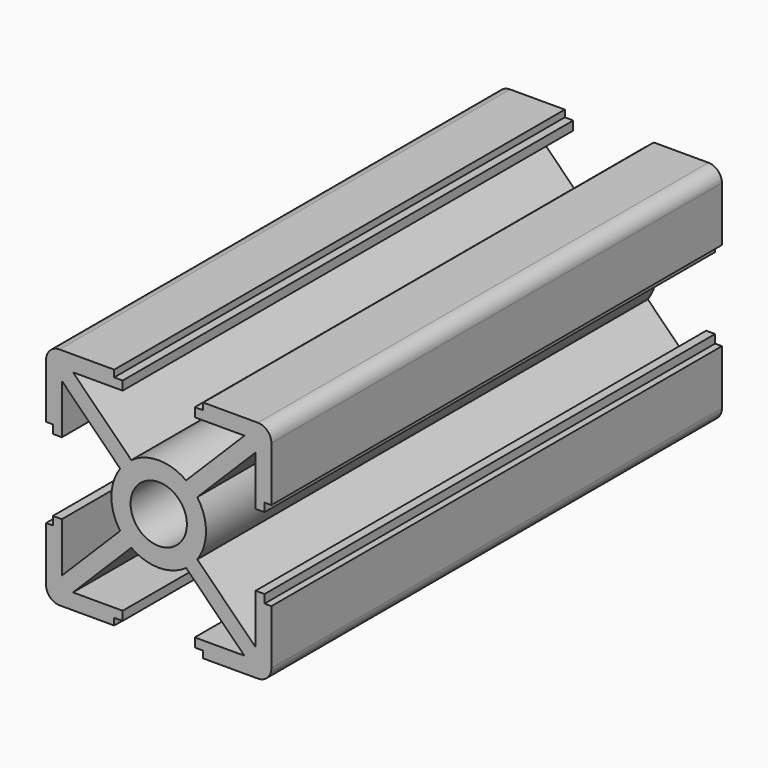
from build123d import *

# Parameters (mm, degrees)
F0_R     = 2.5
F1_DEPTH = 50


with BuildPart() as f1:
    # F0 (on Front) → F1 (new body)
    with BuildSketch(Plane.XZ):
        with BuildLine():
            Line((-50.15593, 47.812752), (-44.979215, 42.636037))
            ThreePointArc((-44.979215, 42.636037), (-45.75593, 40.202701), (-44.979215, 37.769366))
            Line((-44.979215, 37.769366), (-50.15593, 32.592651))
            Line((-50.15593, 32.592651), (-50.15593, 37.002701))
            Line((-50.15593, 37.002701), (-50.949922, 37.002701))
            Line((-50.949922, 37.002701), (-50.949922, 36.252701))
            Line((-50.949922, 36.252701), (-51.55593, 36.252701))
            Line((-51.55593, 36.252701), (-51.55593, 31.402701))
            ThreePointArc((-51.55593, 31.402701), (-51.204458, 30.554173), (-50.35593, 30.202701))
            Line((-50.35593, 30.202701), (-45.50593, 30.202701))
            Line((-45.50593, 30.202701), (-45.50593, 30.808709))
            Line((-45.50593, 30.808709), (-44.75593, 30.808709))
            Line((-44.75593, 30.808709), (-44.75593, 31.602701))
            Line((-44.75593, 31.602701), (-49.16598, 31.602701))
            Line((-49.16598, 31.602701), (-43.989265, 36.779416))
            ThreePointArc((-43.989265, 36.779416), (-41.55593, 36.002701), (-39.122595, 36.779416))
            Line((-39.122595, 36.779416), (-33.945879, 31.602701))
            Line((-33.945879, 31.602701), (-38.35593, 31.602701))
            Line((-38.35593, 31.602701), (-38.35593, 30.808709))
            Line((-38.35593, 30.808709), (-37.60593, 30.808709))
            Line((-37.60593, 30.808709), (-37.60593, 30.202701))
            Line((-37.60593, 30.202701), (-32.75593, 30.202701))
            ThreePointArc((-32.75593, 30.202701), (-31.907402, 30.554173), (-31.55593, 31.402701))
            Line((-31.55593, 31.402701), (-31.55593, 36.252701))
            Line((-31.55593, 36.252701), (-32.161938, 36.252701))
            Line((-32.161938, 36.252701), (-32.161938, 37.002701))
            Line((-32.161938, 37.002701), (-32.95593, 37.002701))
            Line((-32.95593, 37.002701), (-32.95593, 32.592651))
            Line((-32.95593, 32.592651), (-38.132645, 37.769366))
            ThreePointArc((-38.132645, 37.769366), (-37.35593, 40.202701), (-38.132645, 42.636037))
            Line((-38.132645, 42.636037), (-32.95593, 47.812752))
            Line((-32.95593, 47.812752), (-32.95593, 43.402701))
            Line((-32.95593, 43.402701), (-32.161938, 43.402701))
            Line((-32.161938, 43.402701), (-32.161938, 44.152701))
            Line((-32.161938, 44.152701), (-31.55593, 44.152701))
            Line((-31.55593, 44.152701), (-31.55593, 49.002701))
            ThreePointArc((-31.55593, 49.002701), (-31.907402, 49.851229), (-32.75593, 50.202701))
            Line((-32.75593, 50.202701), (-37.60593, 50.202701))
            Line((-37.60593, 50.202701), (-37.60593, 49.596693))
            Line((-37.60593, 49.596693), (-38.35593, 49.596693))
            Line((-38.35593, 49.596693), (-38.35593, 48.802701))
            Line((-38.35593, 48.802701), (-33.945879, 48.802701))
            Line((-33.945879, 48.802701), (-39.122595, 43.625986))
            ThreePointArc((-39.122595, 43.625986), (-41.55593, 44.402701), (-43.989265, 43.625986))
            Line((-43.989265, 43.625986), (-49.16598, 48.802701))
            Line((-49.16598, 48.802701), (-44.75593, 48.802701))
            Line((-44.75593, 48.802701), (-44.75593, 49.596693))
            Line((-44.75593, 49.596693), (-45.50593, 49.596693))
            Line((-45.50593, 49.596693), (-45.50593, 50.202701))
            Line((-45.50593, 50.202701), (-50.35593, 50.202701))
            ThreePointArc((-50.35593, 50.202701), (-51.204458, 49.851229), (-51.55593, 49.002701))
            Line((-51.55593, 49.002701), (-51.55593, 44.152701))
            Line((-51.55593, 44.152701), (-50.949922, 44.152701))
            Line((-50.949922, 44.152701), (-50.949922, 43.402701))
            Line((-50.949922, 43.402701), (-50.15593, 43.402701))
            Line((-50.15593, 43.402701), (-50.15593, 47.812752))
        make_face()
        with Locations((-41.55593, 40.202701)):
            Circle(F0_R, mode=Mode.SUBTRACT)
    extrude(amount=-F1_DEPTH)


solid = f1.part
